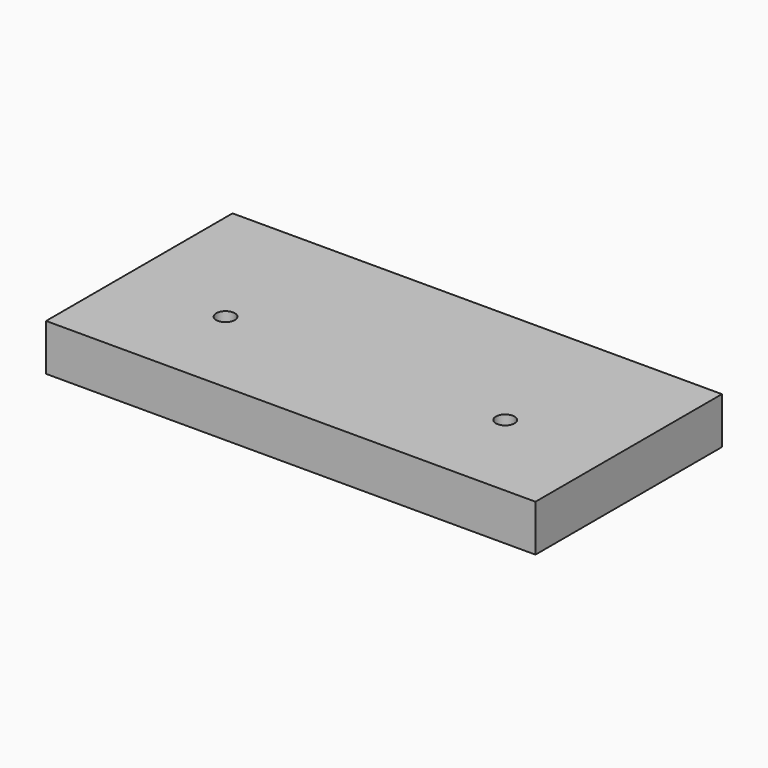
from build123d import *

# Parameters (mm, degrees)
F0_W     = 105
F0_H     = 50
F1_DEPTH = 10
F3_DEPTH = 10.001
F4_SIZE  = 2


with BuildPart() as f1:
    # F0 (on Top) → F1 (new body)
    with BuildSketch(Plane.XY):
        Rectangle(F0_W, F0_H)
    extrude(amount=F1_DEPTH)

    # F2 (on face) → F3 (cut, through all)
    with BuildSketch(Plane.XY.offset(10)):
        with BuildLine():
            ThreePointArc((-28, -5), (-30, -3), (-32, -5))
            Line((-32, -5), (-28, -5))
        make_face()
        with BuildLine():
            Line((-28, -5), (-32, -5))
            ThreePointArc((-32, -5), (-30, -7), (-28, -5))
        make_face()
        with BuildLine():
            ThreePointArc((32, -5), (30, -3), (28, -5))
            Line((28, -5), (32, -5))
        make_face()
        with BuildLine():
            Line((32, -5), (28, -5))
            ThreePointArc((28, -5), (30, -7), (32, -5))
        make_face()
    extrude(amount=-F3_DEPTH, mode=Mode.SUBTRACT)

    # F4
    f4_edges = [f1.edges().sort_by_distance(p)[0] for p in [
        (32, -5, 0),
        (-28, -5, 0),
    ]]
    chamfer(f4_edges, length=F4_SIZE)


solid = f1.part
